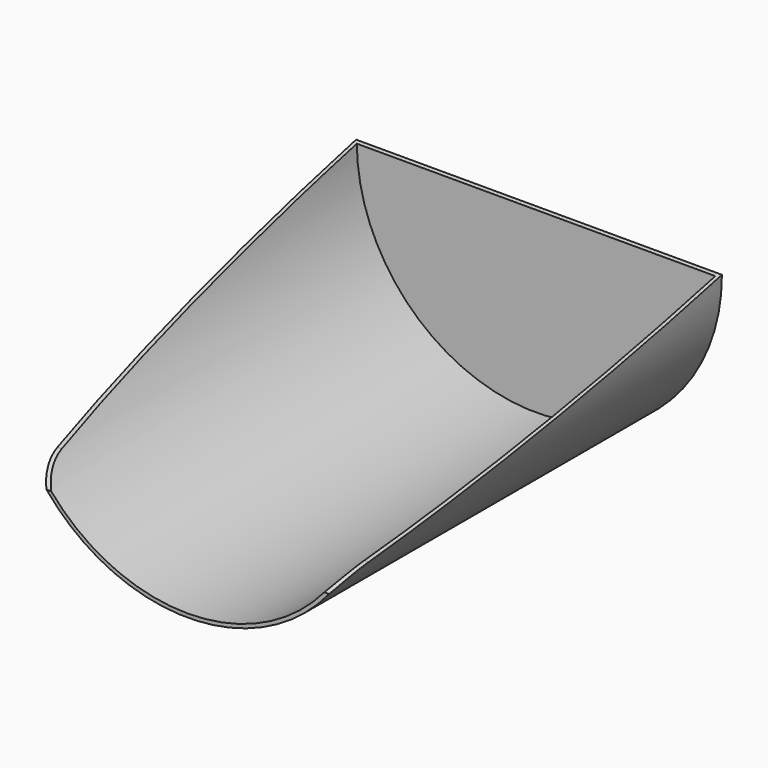
from build123d import *

# Parameters (mm, degrees)
F0_R     = 125
F1_DEPTH = 300
F3_T     = -2.5
F5_DEPTH = 331


with BuildPart() as f1:
    # F0 (on Front) → F1 (new body)
    with BuildSketch(Plane.XZ):
        Circle(F0_R)
    extrude(amount=F1_DEPTH)

    # F3
    f3_openings = [f1.faces().sort_by_distance(p)[0] for p in [
        (0, -300, 0),
    ]]
    offset(amount=F3_T, openings=f3_openings)

    # F4 (on offset) → F5 (cut)
    with BuildSketch(Plane.YZ.offset(125)):
        with BuildLine():
            Line((-278.461281, -65.740379), (0, 0))
            Line((0, 0), (37.560482, 139.173388))
            Line((37.560482, 139.173388), (-357.278258, 144.254044))
            Line((-357.278258, 144.254044), (-367.802441, -101.419425))
            Line((-367.802441, -101.419425), (-308.549038, -101.419425))
            ThreePointArc((-308.549038, -101.419425), (-299.400873, -78.60811), (-278.461281, -65.740379))
        make_face()
    extrude(amount=-F5_DEPTH, mode=Mode.SUBTRACT)


solid = f1.part
